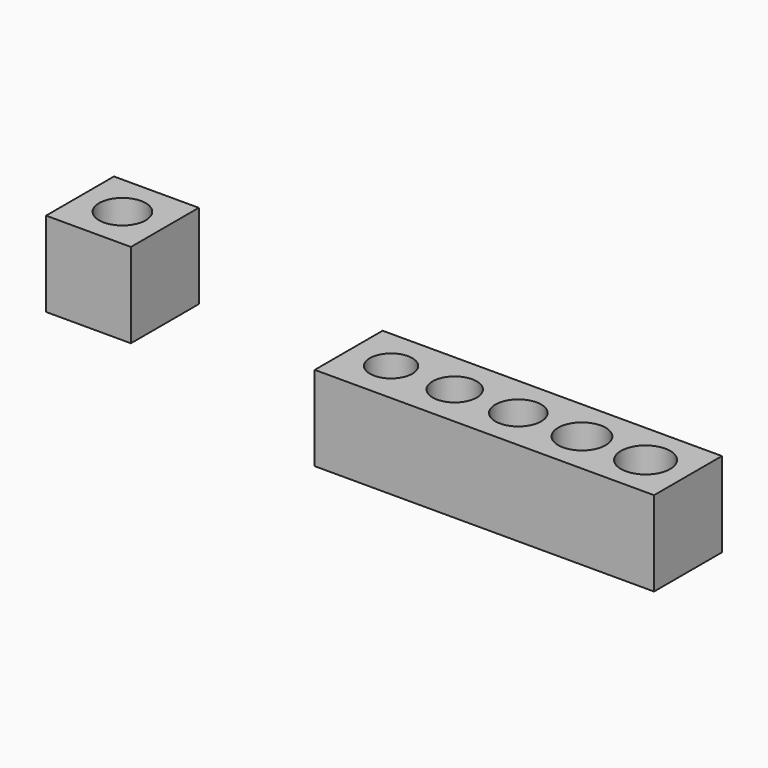
from build123d import *

# Parameters (mm, degrees)
F0_W            = 40
F0_H            = 10
F1_DEPTH        = 10
F3_D            = 3.3
F3_CBORE_D      = 5
F3_CBORE_DEPTH  = 8.2
F4_D            = 3.3
F4_CBORE_D      = 5.2
F4_CBORE_DEPTH  = 8.2
F5_D            = 3.3
F5_CBORE_D      = 5.4
F5_CBORE_DEPTH  = 8.2
F6_D            = 3.3
F6_CBORE_D      = 5.6
F6_CBORE_DEPTH  = 8.2
F7_D            = 3.3
F7_CBORE_D      = 5.8
F7_CBORE_DEPTH  = 8.2
F8_W            = 10
F8_H            = 10
F9_DEPTH        = 10
F11_D           = 3.3
F11_CBORE_D     = 5.5
F11_CBORE_DEPTH = 8.2


with BuildPart() as f1:
    # F0 (on Top) → F1 (new body)
    with BuildSketch(Plane.XY):
        with Locations((20, 5)):
            Rectangle(F0_W, F0_H)
    extrude(amount=F1_DEPTH)

    # F3 (through all)
    with Locations(Plane.XY.offset(10)):
        with Locations((5, 5)):
            CounterBoreHole(F3_D / 2, F3_CBORE_D / 2, F3_CBORE_DEPTH)

    # F4 (through all)
    with Locations(Plane.XY.offset(10)):
        with Locations((12.5, 5)):
            CounterBoreHole(F4_D / 2, F4_CBORE_D / 2, F4_CBORE_DEPTH)

    # F5 (through all)
    with Locations(Plane.XY.offset(10)):
        with Locations((20, 5)):
            CounterBoreHole(F5_D / 2, F5_CBORE_D / 2, F5_CBORE_DEPTH)

    # F6 (through all)
    with Locations(Plane.XY.offset(10)):
        with Locations((27.5, 5)):
            CounterBoreHole(F6_D / 2, F6_CBORE_D / 2, F6_CBORE_DEPTH)

    # F7 (through all)
    with Locations(Plane.XY.offset(10)):
        with Locations((35, 5)):
            CounterBoreHole(F7_D / 2, F7_CBORE_D / 2, F7_CBORE_DEPTH)


with BuildPart() as f9:
    # F8 (on Top) → F9 (new body)
    with BuildSketch(Plane.XY):
        with Locations((-33.520236, 13.560197)):
            Rectangle(F8_W, F8_H)
    extrude(amount=F9_DEPTH)

    # F11 (through all)
    with Locations(Plane.XY.offset(10)):
        with Locations((-33.520236, 13.560197)):
            CounterBoreHole(F11_D / 2, F11_CBORE_D / 2, F11_CBORE_DEPTH)


solid = Compound([f1.part, f9.part])
